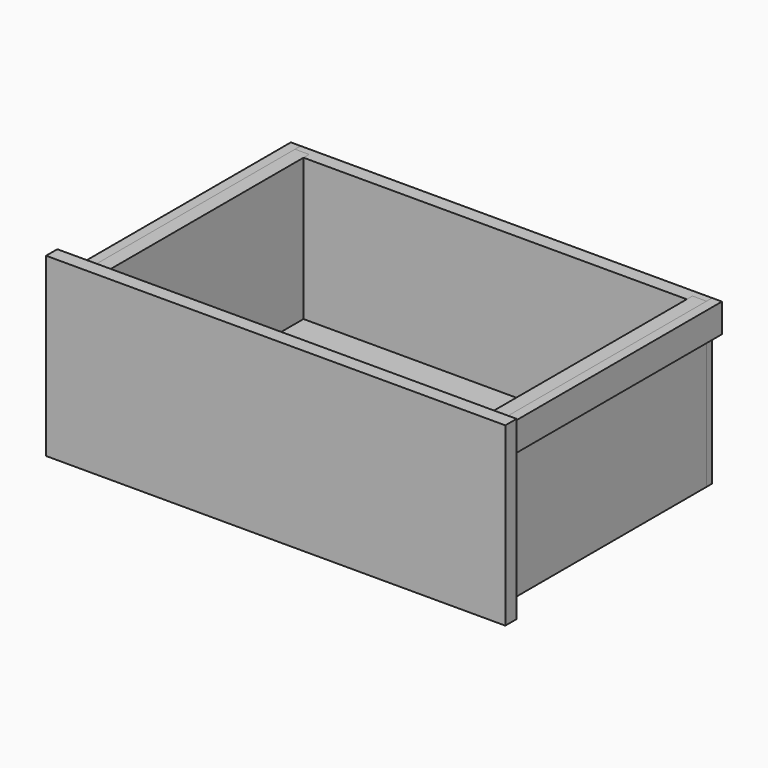
from build123d import *

# Parameters (mm, degrees)
F5_DEPTH       = 211.93125
F1_W           = 18.25625
F1_H           = 337.34375
F6_DEPTH       = 211.93125
F2_W           = 595.3125
F2_H           = 18.25625
F7_DEPTH       = 228.6
F3_W           = 515.14375
F3_H           = 15.08125
F8_DEPTH       = 168.671875
F8_DEPTH_BACK  = 168.671875
F9_DEPTH       = 168.671875
F9_DEPTH_BACK  = 168.671875
F4_W           = 12.7
F4_H           = 37.30625
F10_DEPTH      = 177.8
F10_DEPTH_BACK = 177.8


with BuildPart() as f5:
    # F0 (on Top) → F5 (new body)
    with BuildSketch(Plane.XY):
        Polygon((266.7, 177.8), (-266.7, 177.8), (-266.7, 168.671875), (-248.44375, 168.671875), (-248.44375, 159.54375), (248.44375, 159.54375), (248.44375, 168.671875), (266.7, 168.671875), align=None)
    extrude(amount=F5_DEPTH)


with BuildPart() as f5b:
    # F0 (on Top) → F5, piece 2 (new body)
    with BuildSketch(Plane.XY):
        Polygon((-266.7, -177.8), (266.7, -177.8), (266.7, -168.671875), (248.44375, -168.671875), (248.44375, -159.54375), (-248.44375, -159.54375), (-248.44375, -168.671875), (-266.7, -168.671875), align=None)
    extrude(amount=F5_DEPTH)


with BuildPart() as f6:
    # F1 (on Top) → F6 (new body, through all)
    with BuildSketch(Plane.XY):
        with Locations((-257.571875, 0)):
            Rectangle(F1_W, F1_H)
    extrude(amount=F6_DEPTH)


with BuildPart() as f6b:
    # F1 (on Top) → F6, piece 2 (new body, through all)
    with BuildSketch(Plane.XY):
        with Locations((257.571875, 0)):
            Rectangle(F1_W, F1_H)
    extrude(amount=F6_DEPTH)


with BuildPart() as f7:
    # F2 (on Top) → F7 (new body)
    with BuildSketch(Plane.XY):
        with Locations((0, -186.928125)):
            Rectangle(F2_W, F2_H)
    extrude(amount=F7_DEPTH)


with BuildPart() as f8_tool:
    # F3 (on Front) → F8 (new body, two sides)
    with BuildSketch(Plane.XZ) as f8_sk:
        with Locations((0, 20.240625)):
            Rectangle(F3_W, F3_H)
    extrude(amount=-F8_DEPTH)
    extrude(f8_sk.sketch, amount=F8_DEPTH_BACK)


with BuildPart() as f5_1:
    add(f5.part)

    # F8: cut by f8_tool
    add(f8_tool.part, mode=Mode.SUBTRACT)


with BuildPart() as f5b_1:
    add(f5b.part)

    # F8: cut by f8_tool
    add(f8_tool.part, mode=Mode.SUBTRACT)


with BuildPart() as f6_1:
    add(f6.part)

    # F8: cut by f8_tool
    add(f8_tool.part, mode=Mode.SUBTRACT)


with BuildPart() as f6b_1:
    add(f6b.part)

    # F8: cut by f8_tool
    add(f8_tool.part, mode=Mode.SUBTRACT)


with BuildPart() as f9:
    # F3 (on Front) → F9 (new body, two sides)
    with BuildSketch(Plane.XZ) as f9_sk:
        with Locations((0, 20.240625)):
            Rectangle(F3_W, F3_H)
    extrude(amount=F9_DEPTH)
    extrude(f9_sk.sketch, amount=-F9_DEPTH_BACK)


with BuildPart() as f10:
    # F4 (on Front) → F10 (new body, two sides)
    with BuildSketch(Plane.XZ) as f10_sk:
        with Locations((-273.05, 193.278125)):
            Rectangle(F4_W, F4_H)
    extrude(amount=F10_DEPTH)
    extrude(f10_sk.sketch, amount=-F10_DEPTH_BACK)


with BuildPart() as f10b:
    # F4 (on Front) → F10, piece 2 (new body, two sides)
    with BuildSketch(Plane.XZ) as f10_2_sk:
        with Locations((273.05, 193.278125)):
            Rectangle(F4_W, F4_H)
    extrude(amount=F10_DEPTH)
    extrude(f10_2_sk.sketch, amount=-F10_DEPTH_BACK)


solid = Compound([f7.part, f5_1.part, f5b_1.part, f6_1.part, f6b_1.part, f9.part, f10.part, f10b.part])
